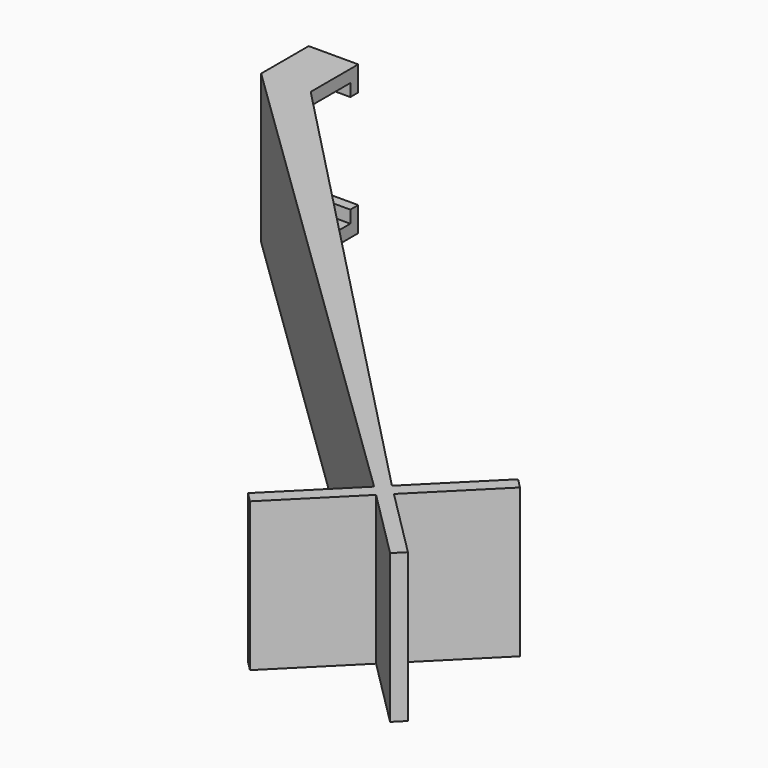
from build123d import *

# Parameters (mm, degrees)
F1_DEPTH = 30
F2_W     = 10
F2_H     = 2.5
F3_DEPTH = 10
F4_W     = 10
F4_H     = 5
F5_W     = 10
F5_H     = 5
F6_DEPTH = 2


with BuildPart() as f1:
    # F0 (on Top) → F1 (new body)
    with BuildSketch(Plane.XY):
        Polygon((-93.994949, 98.994949), (-103.994949, 98.994949), (-2, 0), (-16.142136, -14.142136), (-14.142136, -16.142136), (0, -2), (14.142136, -16.142136), (16.142136, -14.142136), (2, 0), (16.142136, 14.142136), (14.142136, 16.142136), (0, 2), align=None)
    extrude(amount=F1_DEPTH)

    # F2 (on face) → F3 (join)
    with BuildSketch(Plane(origin=(0, 98.994949, 0), x_dir=(-1, 0, 0), z_dir=(0, 1, 0))):
        with Locations((98.994949, 1.25)):
            Rectangle(F2_W, F2_H)
        with Locations((98.994949, 28.75)):
            Rectangle(F2_W, F2_H)
    extrude(amount=F3_DEPTH)

    # F4 (on face) + F5 (on face) → F6 (join)
    with BuildSketch(Plane(origin=(0, 108.994949, 0), x_dir=(-1, 0, 0), z_dir=(0, 1, 0))):
        with Locations((98.994949, 2.5)):
            Rectangle(F4_W, F4_H)
    with BuildSketch(Plane(origin=(0, 108.994949, 0), x_dir=(-1, 0, 0), z_dir=(0, 1, 0))):
        with Locations((98.994949, 27.5)):
            Rectangle(F5_W, F5_H)
    extrude(amount=F6_DEPTH)


solid = f1.part
